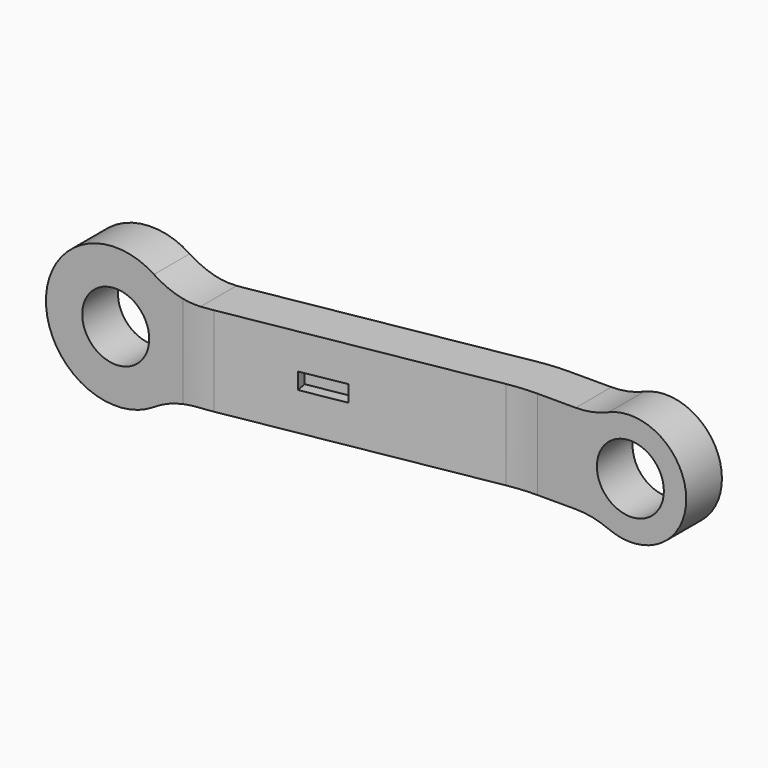
from build123d import *

# Parameters (mm, degrees)
F0_R     = 6
F1_DEPTH = 25
F3_DEPTH = 20
F4_R     = 30
F5_R     = 15
F6_W     = 8.0703347921
F6_H     = 2.9308869271
F7_DEPTH = 2


with BuildPart() as f1:
    # F0 (on Front) → F1 (new body)
    with BuildSketch(Plane.XZ):
        with BuildLine():
            ThreePointArc((-72.5, 0), (-73.2460947032, 4.2539052968), (-75.3953136439, 8))
            ThreePointArc((-75.3953136439, 8), (-97.5, 0), (-75.3953136439, -8))
            ThreePointArc((-75.3953136439, -8), (-73.2460947032, -4.2539052968), (-72.5, 0))
        make_face()
        with Locations((-85, 0)):
            Circle(F0_R, mode=Mode.SUBTRACT)
        with BuildLine():
            ThreePointArc((-6, -8), (-10, 0), (-6, 8))
            Line((-6, 8), (-75.3953136439, 8))
            ThreePointArc((-75.3953136439, 8), (-73.2460947032, 4.2539052968), (-72.5, 0))
            ThreePointArc((-72.5, 0), (-73.2460947032, -4.2539052968), (-75.3953136439, -8))
            Line((-75.3953136439, -8), (-6, -8))
        make_face()
        with BuildLine():
            ThreePointArc((-6, -8), (4.472135955, -8.94427191), (10, 0))
            ThreePointArc((10, 0), (4.472135955, 8.94427191), (-6, 8))
            ThreePointArc((-6, 8), (-10, 0), (-6, -8))
        make_face()
        Circle(F0_R, mode=Mode.SUBTRACT)
    extrude(amount=F1_DEPTH)

    # F2 (on Top) → F3 (intersect, symmetric)
    with BuildSketch(Plane.XY):
        Polygon((-71.0415363766, -9), (-110.2200075984, -9), (-110.2200075984, -17), (-70.3416270684, -17), (-19.3000906918, -8), (29.2156469077, -8), (29.2156469077, 0), (-20, 0), align=None)
    extrude(amount=F3_DEPTH, both=True, mode=Mode.INTERSECT)

    # F4
    f4_edges = [f1.edges().sort_by_distance(p)[0] for p in [
        (-70.341627, -17, 0),
        (-19.300091, -8, 0),
        (-20, 0, 0),
        (-71.041536, -9, 0),
    ]]
    fillet(f4_edges, radius=F4_R)

    # F5 (call 1 of 4: OpenCascade refuses the feature's edges together)
    f5_edges = [f1.edges().sort_by_distance(p)[0] for p in [
        (-75.395314, -13, 8),
    ]]
    fillet(f5_edges, radius=F5_R)

    # F5#2 (call 2 of 4)
    f5_2_edges = [f1.edges().sort_by_distance(p)[0] for p in [
        (-6, -4, 8),
    ]]
    fillet(f5_2_edges, radius=F5_R)

    # F5#3 (call 3 of 4)
    f5_3_edges = [f1.edges().sort_by_distance(p)[0] for p in [
        (-75.395314, -13, -8),
    ]]
    fillet(f5_3_edges, radius=F5_R)

    # F5#4 (call 4 of 4)
    f5_4_edges = [f1.edges().sort_by_distance(p)[0] for p in [
        (-6, -4, -8),
    ]]
    fillet(f5_4_edges, radius=F5_R)

    # F6 (on face) → F7 (cut)
    with BuildSketch(Plane(origin=(0.7861116292, -4.4582605908, 0), x_dir=(0.984807753, 0.1736481777, 0), z_dir=(0.1736481777, -0.984807753, 0))):
        with Locations((-52.2005781531, 0.226563483)):
            Rectangle(F6_W, F6_H)
    extrude(amount=-F7_DEPTH, mode=Mode.SUBTRACT)


solid = f1.part
